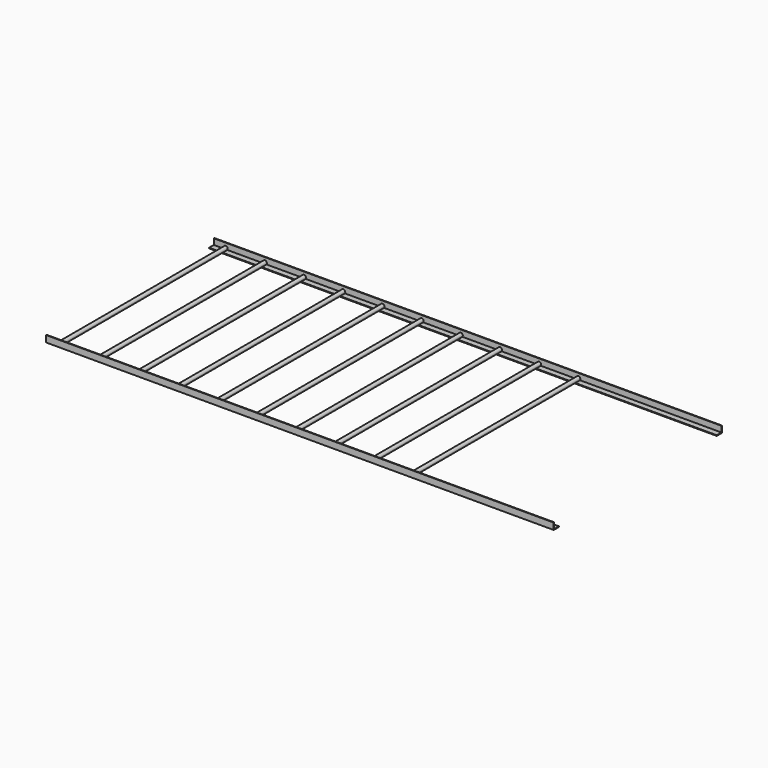
from build123d import *

# Parameters (mm, degrees)
BOX001_W          = 3887
BOX001_H          = 50
BOX001_DEPTH      = 50
BOX_W             = 3887
BOX_H             = 50
BOX_DEPTH         = 50
BOX003_W          = 3887
BOX003_H          = 50
BOX003_DEPTH      = 50
BOX002_W          = 3887
BOX002_H          = 50
BOX002_DEPTH      = 50
CYLINDER001_R     = 15
CYLINDER001_DEPTH = 1580
ARRAY_X_COUNT     = 10
ARRAY_X_PITCH     = 300


with BuildPart() as box001:
    # Box001 → Box001 (new body)
    with BuildSketch(Plane(origin=(0, 5, 5), x_dir=(1, 0, 0), z_dir=(0, 0, 1))):
        with Locations((1943.5, 25)):
            Rectangle(BOX001_W, BOX001_H)
    extrude(amount=BOX001_DEPTH)


with BuildPart() as cut:
    # Box → Box (new body)
    with BuildSketch(Plane.XY):
        with Locations((1943.5, 25)):
            Rectangle(BOX_W, BOX_H)
    extrude(amount=BOX_DEPTH)

    # Cut: cut Box001
    add(box001.part, mode=Mode.SUBTRACT)


with BuildPart() as box003:
    # Box003 → Box003 (new body)
    with BuildSketch(Plane(origin=(0, 1555, 5), x_dir=(1, 0, 0), z_dir=(0, 0, 1))):
        with Locations((1943.5, 25)):
            Rectangle(BOX003_W, BOX003_H)
    extrude(amount=BOX003_DEPTH)


with BuildPart() as cut001:
    # Box002 → Box002 (new body)
    with BuildSketch(Plane(origin=(0, 1560, 0), x_dir=(1, 0, 0), z_dir=(0, 0, 1))):
        with Locations((1943.5, 25)):
            Rectangle(BOX002_W, BOX002_H)
    extrude(amount=BOX002_DEPTH)

    # Cut001: cut Box003
    add(box003.part, mode=Mode.SUBTRACT)


with BuildPart() as array:
    # Cylinder001 → Cylinder001 (new body)
    with BuildSketch(Plane(origin=(100, 15, 21), x_dir=(1, 0, 0), z_dir=(0, 1, 0))):
        Circle(CYLINDER001_R)
    extrude(amount=CYLINDER001_DEPTH)

    # Array X: Array ×10


with BuildPart() as array_1:
    add(array.part)
    with Locations(*[(i * ARRAY_X_PITCH, 0, 0) for i in range(1, ARRAY_X_COUNT)]):
        add(array.part)


solid = Compound([cut.part, cut001.part, array_1.part])
